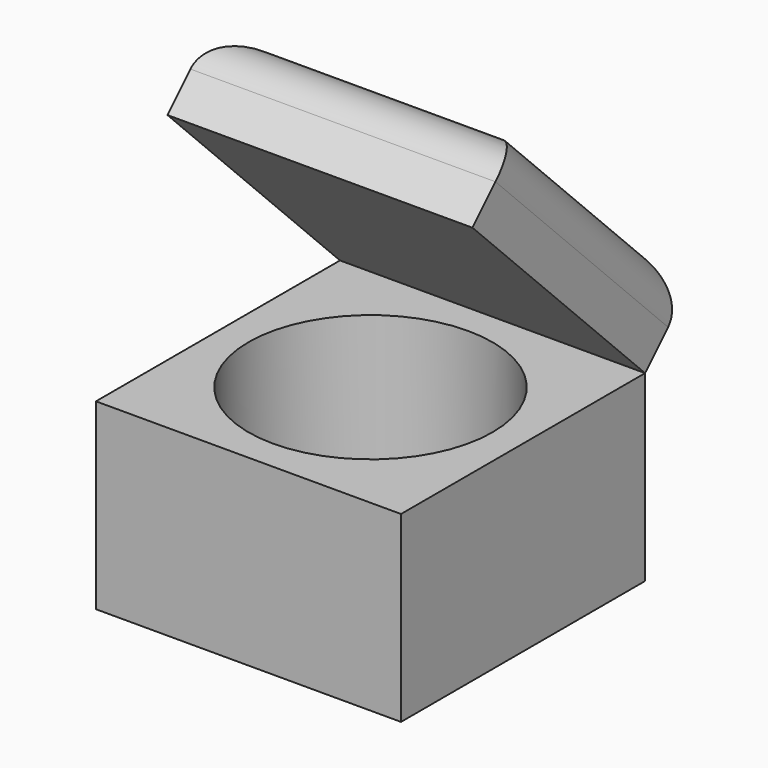
from build123d import *

# Parameters (mm, degrees)
F0_W     = 381
F0_H     = 381
F1_DEPTH = 228.6
F4_DEPTH = 190.5
F5_R     = 50.8
F6_R     = 152.4
F7_DEPTH = 228.601


with BuildPart() as f1:
    # F0 (on Top) → F1 (new body)
    with BuildSketch(Plane.XY):
        Rectangle(F0_W, F0_H)
    extrude(amount=-F1_DEPTH)

    # F6 (on face) → F7 (cut, through all)
    with BuildSketch(Plane.XY):
        Circle(F6_R)
    extrude(amount=-F7_DEPTH, mode=Mode.SUBTRACT)


with BuildPart() as f4:
    # F3 (on Right) → F4 (new body, symmetric)
    with BuildSketch(Plane.YZ):
        Polygon((-78.907684, 269.407684), (190.5, 0), (262.342049, 71.842049), (-7.065635, 341.249733), align=None)
    extrude(amount=F4_DEPTH, both=True)

    # F5
    f5_edges = [f4.edges().sort_by_distance(p)[0] for p in [
        (-190.5, 127.638207, 206.545891),
        (0, -7.065635, 341.249733),
        (190.5, 127.638207, 206.545891),
        (0, 262.342049, 71.842049),
    ]]
    fillet(f5_edges, radius=F5_R)


solid = Compound([f1.part, f4.part])
